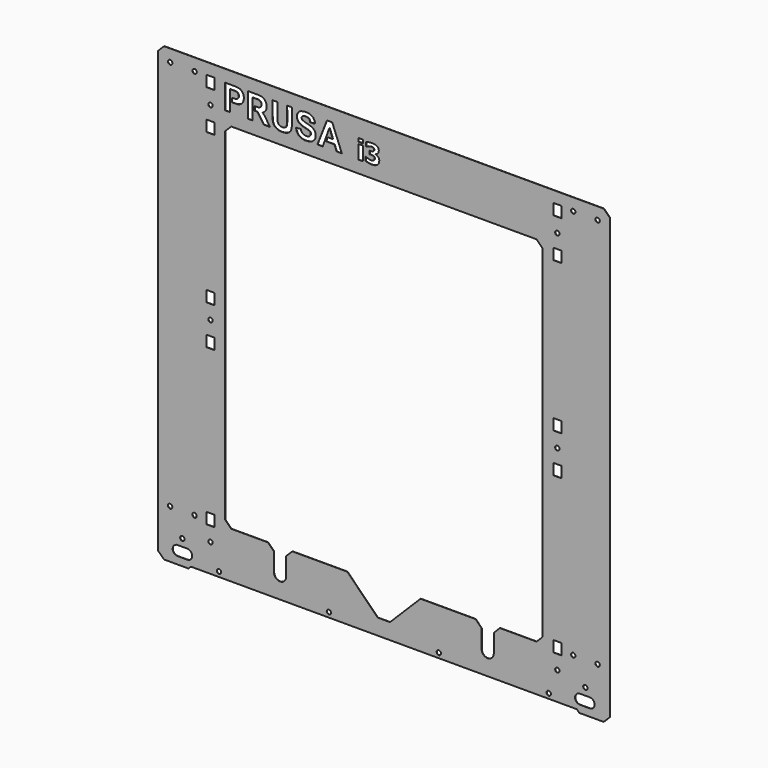
from build123d import *

# Parameters (mm, degrees)
F0_W     = 165.1
F0_H     = 228.599975
F0_H_2   = 228.599974
F0_W_2   = 89.414324
F0_H_3   = 286.892264
F0_W_3   = 94.523738
F0_H_4   = 69.743168
F1_DEPTH = 6


with BuildPart() as f1:
    # F0 (on Front) → F1 (new body)
    with BuildSketch(Plane.XZ):
        Polygon((-7885.972519, -4577.678754), (-7758.972519, -4699.808355), (-7250.972569, -4699.808355), (-7200.172569, -4649.008355), (826.226796, -4649.008355), (877.026796, -4699.808355), (1385.026745, -4699.808355), (1512.026745, -4572.808355), (1512.026745, 4571.190908), (1385.026745, 4698.190908), (-7758.972519, 4698.190908), (-7885.972519, 4571.190908), align=None)
        Polygon((-7577.038262, -4471.169137), (-7580.500206, -4444.873127), (-7577.038262, -4418.577117), (-7566.888397, -4394.073127), (-7550.742252, -4373.031081), (-7529.700206, -4356.884936), (-7505.196216, -4346.735071), (-7478.900206, -4343.273127), (-7275.802593, -4343.273127), (-7249.506583, -4346.735071), (-7225.002593, -4356.884936), (-7203.960548, -4373.031081), (-7187.814428, -4394.073127), (-7177.664537, -4418.577117), (-7174.202619, -4444.873127), (-7177.664537, -4471.169137), (-7187.814428, -4495.673102), (-7203.960548, -4516.715173), (-7225.002593, -4532.861292), (-7249.506583, -4543.011183), (-7274.104324, -4546.473102), (-7478.900206, -4546.473102), (-7505.196216, -4543.011183), (-7529.700206, -4532.861292), (-7550.742252, -4516.715173), (-7566.888397, -4495.673102), align=None, mode=Mode.SUBTRACT)
        Polygon((-7346.262524, -4159.301079), (-7338.995406, -4168.768955), (-7334.426378, -4179.795095), (-7332.866818, -4191.628066), (-7334.422999, -4203.461494), (-7338.988853, -4214.488955), (-7346.253253, -4223.958913), (-7355.721153, -4231.226031), (-7366.747293, -4235.795059), (-7378.580264, -4237.354619), (-7390.413693, -4235.798437), (-7401.441128, -4231.232559), (-7410.911112, -4223.968159), (-7418.178204, -4214.500283), (-7422.747232, -4203.474143), (-7424.306792, -4191.641147), (-7422.750636, -4179.807719), (-7418.184757, -4168.780283), (-7410.920357, -4159.310325), (-7401.452482, -4152.043207), (-7390.426342, -4147.474179), (-7378.593345, -4145.914619), (-7366.759917, -4147.470801), (-7355.732482, -4152.036654), align=None, mode=Mode.SUBTRACT)
        Polygon((-6571.810478, -4535.575155), (-6570.25262, -4547.408355), (-6571.810478, -4559.241555), (-6576.377932, -4570.268355), (-6583.643703, -4579.737272), (-6593.11262, -4587.003043), (-6604.139421, -4591.570471), (-6615.97262, -4593.128355), (-6627.80582, -4591.570471), (-6638.83262, -4587.003043), (-6648.301537, -4579.737272), (-6655.567283, -4570.268355), (-6660.134737, -4559.241555), (-6661.69262, -4547.408355), (-6660.134737, -4535.575155), (-6655.567283, -4524.548355), (-6648.301537, -4515.079438), (-6638.83262, -4507.813692), (-6627.80582, -4503.246239), (-6615.97262, -4501.688355), (-6604.139421, -4503.246239), (-6593.11262, -4507.813692), (-6583.643703, -4515.079438), (-6576.377932, -4524.548355), align=None, mode=Mode.SUBTRACT)
        Polygon((-7632.769164, -3637.562981), (-7620.935736, -3639.119163), (-7609.908301, -3643.685016), (-7600.438342, -3650.949416), (-7593.171225, -3660.417317), (-7588.602196, -3671.443457), (-7587.042636, -3683.276428), (-7588.598818, -3695.109856), (-7593.164671, -3706.137292), (-7600.429097, -3715.607275), (-7609.896972, -3722.874368), (-7620.923112, -3727.443396), (-7632.756083, -3729.002956), (-7644.589511, -3727.4468), (-7655.616972, -3722.880921), (-7665.08693, -3715.616521), (-7672.354048, -3706.148646), (-7676.923051, -3695.122506), (-7678.482636, -3683.289509), (-7676.926455, -3671.456081), (-7672.360576, -3660.428646), (-7665.096176, -3650.958687), (-7655.628301, -3643.69157), (-7644.602161, -3639.122541), align=None, mode=Mode.SUBTRACT)
        Polygon((-7147.276663, -3643.69157), (-7136.250523, -3639.122541), (-7124.417527, -3637.562981), (-7112.584098, -3639.119163), (-7101.556663, -3643.685016), (-7092.086705, -3650.949416), (-7084.819587, -3660.417317), (-7080.250559, -3671.443457), (-7078.690999, -3683.276428), (-7080.247155, -3695.109856), (-7084.813034, -3706.137292), (-7092.077434, -3715.607275), (-7101.545309, -3722.874368), (-7112.571449, -3727.443396), (-7124.404446, -3729.002956), (-7136.237874, -3727.4468), (-7147.265309, -3722.880921), (-7156.735267, -3715.616521), (-7164.002385, -3706.148646), (-7168.571413, -3695.122506), (-7170.130973, -3683.289509), (-7168.574817, -3671.456081), (-7164.008938, -3660.428646), (-7156.744538, -3650.958687), align=None, mode=Mode.SUBTRACT)
        Polygon((-6817.053981, -4104.144649), (-6826.523964, -4096.880249), (-6833.791057, -4087.412374), (-6838.360085, -4076.386234), (-6839.919645, -4064.553237), (-6838.363489, -4052.719809), (-6833.79761, -4041.692374), (-6826.53321, -4032.222416), (-6817.065335, -4024.955298), (-6806.039195, -4020.38627), (-6794.206198, -4018.82671), (-6782.37277, -4020.382891), (-6771.345335, -4024.948745), (-6761.875376, -4032.21317), (-6754.608259, -4041.681045), (-6750.03923, -4052.707185), (-6748.47967, -4064.540156), (-6750.035852, -4076.373585), (-6754.601705, -4087.401045), (-6761.866105, -4096.871004), (-6771.334006, -4104.138121), (-6782.360146, -4108.707124), (-6794.193117, -4110.26671), (-6806.026545, -4108.710528), align=None, mode=Mode.SUBTRACT)
        with Locations((-6793.772595, -3654.599892)):
            Rectangle(F0_W, F0_H, mode=Mode.SUBTRACT)
        Polygon((-4285.810682, -4535.575155), (-4284.252798, -4547.408355), (-4285.810682, -4559.241555), (-4290.37811, -4570.268355), (-4297.643881, -4579.737272), (-4307.112798, -4587.003043), (-4318.139598, -4591.570471), (-4329.972798, -4593.128355), (-4341.805998, -4591.570471), (-4352.832798, -4587.003043), (-4362.301715, -4579.737272), (-4369.567486, -4570.268355), (-4374.134914, -4559.241555), (-4375.692798, -4547.408355), (-4374.134914, -4535.575155), (-4369.567486, -4524.548355), (-4362.301715, -4515.079438), (-4352.832798, -4507.813692), (-4341.805998, -4503.246239), (-4329.972798, -4501.688355), (-4318.139598, -4503.246239), (-4307.112798, -4507.813692), (-4297.643881, -4515.079438), (-4290.37811, -4524.548355), align=None, mode=Mode.SUBTRACT)
        Polygon((-1999.810859, -4535.575155), (-1998.252976, -4547.408355), (-1999.810859, -4559.241555), (-2004.378313, -4570.268355), (-2011.644059, -4579.737272), (-2021.112976, -4587.003043), (-2032.139776, -4591.570471), (-2043.972976, -4593.128355), (-2055.806175, -4591.570471), (-2066.832976, -4587.003043), (-2076.301893, -4579.737272), (-2083.567664, -4570.268355), (-2088.135118, -4559.241555), (-2089.692976, -4547.408355), (-2088.135118, -4535.575155), (-2083.567664, -4524.548355), (-2076.301893, -4515.079438), (-2066.832976, -4507.813692), (-2055.806175, -4503.246239), (-2043.972976, -4501.688355), (-2032.139776, -4503.246239), (-2021.112976, -4507.813692), (-2011.644059, -4515.079438), (-2004.378313, -4524.548355), align=None, mode=Mode.SUBTRACT)
        with Locations((-6793.772595, -411.018698)):
            Rectangle(F0_W, F0_H_2, mode=Mode.SUBTRACT)
        Polygon((-6793.125073, -46.608187), (-6804.958526, -45.052005), (-6815.985962, -40.486127), (-6825.45592, -33.221727), (-6832.723038, -23.753851), (-6837.292066, -12.727711), (-6838.851626, -0.89474), (-6837.295444, 10.938688), (-6832.729591, 21.966149), (-6825.465165, 31.436107), (-6815.99729, 38.703225), (-6804.97115, 43.272253), (-6793.138179, 44.831813), (-6781.304751, 43.275631), (-6770.27729, 38.709752), (-6760.807332, 31.445352), (-6753.540214, 21.977477), (-6748.971186, 10.951337), (-6747.411626, -0.881634), (-6748.967808, -12.715062), (-6753.533686, -23.742523), (-6760.798086, -33.212481), (-6770.265962, -40.479599), (-6781.292102, -45.048627), align=None, mode=Mode.SUBTRACT)
        Polygon((-5599.972696, -3683.808431), (-5853.972671, -3683.808431), (-6361.972646, -3683.808431), (-6488.97262, -3556.808431), (-6488.97262, 3555.190985), (-6361.972646, 3682.190985), (-11.973154, 3682.190985), (115.026846, 3555.190985), (115.026846, -3556.808431), (-11.973154, -3683.808431), (-519.973103, -3683.808431), (-773.973077, -3683.808431), (-900.973077, -3810.808406), (-900.973077, -3836.208406), (-900.973077, -4193.473198), (-905.088792, -4224.735137), (-917.798037, -4255.417981), (-938.015523, -4281.765909), (-964.363476, -4301.98342), (-995.046321, -4314.692666), (-1027.973052, -4319.027557), (-1060.899809, -4314.692666), (-1091.582653, -4301.98342), (-1117.930606, -4281.765909), (-1138.148092, -4255.417981), (-1150.857338, -4224.735137), (-1154.973052, -4193.473198), (-1154.973052, -3836.208406), (-1154.973052, -3810.808406), (-1281.973052, -3683.808431), (-2424.97295, -3683.808431), (-3059.9729, -4318.80838), (-3313.972874, -4318.80838), (-3948.972823, -3683.808431), (-5091.972747, -3683.808431), (-5218.972722, -3810.808406), (-5218.972722, -3836.208406), (-5218.972722, -4193.473198), (-5223.088436, -4224.735137), (-5235.797682, -4255.417981), (-5256.015193, -4281.765909), (-5282.363146, -4301.98342), (-5313.045965, -4314.692666), (-5345.972722, -4319.027557), (-5378.899453, -4314.692666), (-5409.582297, -4301.98342), (-5435.930251, -4281.765909), (-5456.147736, -4255.417981), (-5468.856982, -4224.735137), (-5472.972696, -4193.473198), (-5472.972696, -3836.208406), (-5472.972696, -3810.808406), align=None, mode=Mode.SUBTRACT)
        Polygon((197.864705, -4559.241555), (196.306846, -4547.408355), (197.864705, -4535.575155), (202.432158, -4524.548355), (209.69793, -4515.079438), (219.166846, -4507.813692), (230.193621, -4503.246239), (242.026846, -4501.688355), (253.860046, -4503.246239), (264.886846, -4507.813692), (274.355763, -4515.079438), (281.621509, -4524.548355), (286.188963, -4535.575155), (287.746821, -4547.408355), (286.188963, -4559.241555), (281.621509, -4570.268355), (274.355763, -4579.737272), (264.886846, -4587.003043), (253.860046, -4591.570471), (242.026846, -4593.128355), (230.193621, -4591.570471), (219.166846, -4587.003043), (209.69793, -4579.737272), (202.432158, -4570.268355), align=None, mode=Mode.SUBTRACT)
        Polygon((1011.130693, -4546.473102), (1004.02677, -4547.408355), (996.922847, -4546.473102), (891.352142, -4546.473102), (865.056131, -4543.011183), (840.552142, -4532.861292), (819.510096, -4516.715173), (803.363951, -4495.673102), (793.214085, -4471.169137), (789.752142, -4444.873127), (793.214085, -4418.577117), (803.363951, -4394.073127), (819.510096, -4373.031081), (840.552142, -4356.884936), (865.056131, -4346.735071), (891.352142, -4343.273127), (1094.449754, -4343.273127), (1120.745765, -4346.735071), (1145.249754, -4356.884936), (1166.2918, -4373.031081), (1182.43792, -4394.073127), (1192.58781, -4418.577117), (1196.049729, -4444.873127), (1192.58781, -4471.169137), (1182.43792, -4495.673102), (1166.2918, -4516.715173), (1145.249754, -4532.861292), (1120.745765, -4543.011183), (1096.148024, -4546.473102), align=None, mode=Mode.SUBTRACT)
        Polygon((1036.443139, -4160.303059), (1043.710257, -4169.770934), (1048.279285, -4180.797074), (1049.838845, -4192.630045), (1048.282663, -4204.463473), (1043.716785, -4215.490934), (1036.452385, -4224.960892), (1026.984509, -4232.22801), (1015.958369, -4236.797038), (1004.125398, -4238.356598), (992.29197, -4236.800416), (981.264509, -4232.234538), (971.794551, -4224.970138), (964.527433, -4215.502262), (959.958405, -4204.476122), (958.398845, -4192.643151), (959.955027, -4180.809723), (964.520906, -4169.782262), (971.785306, -4160.312304), (981.253181, -4153.045186), (992.279321, -4148.476158), (1004.112292, -4146.916598), (1015.94572, -4148.47278), (1026.973181, -4153.038659), align=None, mode=Mode.SUBTRACT)
        Polygon((463.971208, -4052.979956), (465.528457, -4064.808406), (463.971208, -4076.636856), (459.405609, -4087.659211), (452.142758, -4097.124343), (442.677652, -4104.387168), (431.655271, -4108.952793), (419.826821, -4110.510042), (407.998371, -4108.952793), (396.976016, -4104.387168), (387.510884, -4097.124343), (380.248033, -4087.659211), (375.682434, -4076.636856), (374.125185, -4064.808406), (375.682434, -4052.979956), (380.248033, -4041.957575), (387.510884, -4032.492468), (396.976016, -4025.229618), (407.998371, -4020.664019), (419.826821, -4019.10677), (431.655271, -4020.664019), (442.677652, -4025.229618), (452.142758, -4032.492468), (459.405609, -4041.957575), align=None, mode=Mode.SUBTRACT)
        with Locations((419.826821, -3654.599892)):
            Rectangle(F0_W, F0_H, mode=Mode.SUBTRACT)
        Polygon((727.521862, -3644.444756), (738.548002, -3639.875728), (750.380973, -3638.316168), (762.214401, -3639.872324), (773.241862, -3644.438203), (782.71182, -3651.702603), (789.978938, -3661.170478), (794.547966, -3672.196618), (796.107526, -3684.029614), (794.551345, -3695.863043), (789.985466, -3706.890478), (782.721066, -3716.360436), (773.253191, -3723.627554), (762.227051, -3728.196582), (750.39408, -3729.756142), (738.560651, -3728.19996), (727.533191, -3723.634107), (718.063232, -3716.369707), (710.796115, -3706.901806), (706.227086, -3695.875692), (704.667526, -3684.042695), (706.223708, -3672.209267), (710.789587, -3661.181832), (718.053987, -3651.711874), align=None, mode=Mode.SUBTRACT)
        Polygon((1280.715828, -3724.765372), (1269.689688, -3729.334401), (1257.856717, -3730.893961), (1246.023289, -3729.337779), (1234.995828, -3724.7719), (1225.52587, -3717.5075), (1218.258752, -3708.039625), (1213.689724, -3697.013485), (1212.130164, -3685.180514), (1213.686346, -3673.347086), (1218.252224, -3662.319625), (1225.516624, -3652.849667), (1234.9845, -3645.582549), (1246.01064, -3641.013521), (1257.843611, -3639.453961), (1269.677039, -3641.010142), (1280.7045, -3645.576021), (1290.174458, -3652.840421), (1297.441576, -3662.308296), (1302.010604, -3673.334436), (1303.570164, -3685.167407), (1302.013982, -3697.000836), (1297.448104, -3708.028296), (1290.183704, -3717.498255), align=None, mode=Mode.SUBTRACT)
        with Locations((419.826821, -411.018698)):
            Rectangle(F0_W, F0_H_2, mode=Mode.SUBTRACT)
        Polygon((463.968897, 11.024032), (465.528457, -0.808939), (463.972275, -12.642367), (459.406422, -23.669803), (452.141996, -33.139786), (442.674121, -40.406879), (431.647981, -44.975907), (419.81501, -46.535467), (407.981582, -44.979311), (396.954121, -40.413432), (387.484163, -33.149032), (380.217045, -23.681157), (375.648042, -12.655017), (374.088457, -0.82202), (375.644639, 11.011408), (380.210517, 22.038843), (387.474917, 31.508802), (396.942793, 38.775919), (407.968933, 43.344948), (419.801929, 44.904508), (431.635357, 43.348326), (442.662793, 38.782473), (452.132751, 31.518073), (459.399869, 22.050172), align=None, mode=Mode.SUBTRACT)
        with Locations((-6793.772595, 409.401252)):
            Rectangle(F0_W, F0_H, mode=Mode.SUBTRACT)
        with Locations((-6793.772595, 3528.337381)):
            Rectangle(F0_W, F0_H, mode=Mode.SUBTRACT)
        Polygon((-6770.27729, 3975.662661), (-6760.807332, 3968.398261), (-6753.540214, 3958.930385), (-6748.971186, 3947.904245), (-6747.411626, 3936.071249), (-6748.967808, 3924.237821), (-6753.533686, 3913.210385), (-6760.798086, 3903.740427), (-6770.265962, 3896.473309), (-6781.292102, 3891.904281), (-6793.125073, 3890.344721), (-6804.958526, 3891.900878), (-6815.985962, 3896.466756), (-6825.45592, 3903.731156), (-6832.723038, 3913.199032), (-6837.292066, 3924.225172), (-6838.851626, 3936.058168), (-6837.295444, 3947.891596), (-6832.729591, 3958.919032), (-6825.465165, 3968.38899), (-6815.99729, 3975.656108), (-6804.97115, 3980.225136), (-6793.138179, 3981.784696), (-6781.304751, 3980.228539), align=None, mode=Mode.SUBTRACT)
        Polygon((-7620.020015, 4400.37286), (-7631.853012, 4398.8133), (-7643.68644, 4400.369482), (-7654.713875, 4404.935335), (-7664.183833, 4412.199735), (-7671.450951, 4421.667636), (-7676.019979, 4432.693776), (-7677.579539, 4444.526747), (-7676.023358, 4456.360175), (-7671.457504, 4467.387636), (-7664.193104, 4476.857594), (-7654.725204, 4484.124687), (-7643.699089, 4488.693715), (-7631.866093, 4490.2533), (-7620.032664, 4488.697119), (-7609.005229, 4484.13124), (-7599.535271, 4476.86684), (-7592.268153, 4467.398965), (-7587.699125, 4456.372825), (-7586.139565, 4444.539828), (-7587.695721, 4432.7064), (-7592.2616, 4421.678965), (-7599.526, 4412.209006), (-7608.993875, 4404.941889), align=None, mode=Mode.SUBTRACT)
        Polygon((-7162.988925, 4467.387636), (-7155.7245, 4476.857594), (-7146.256624, 4484.124687), (-7135.230484, 4488.693715), (-7123.397513, 4490.2533), (-7111.564085, 4488.697119), (-7100.536624, 4484.13124), (-7091.066666, 4476.86684), (-7083.799548, 4467.398965), (-7079.230546, 4456.372825), (-7077.67096, 4444.539828), (-7079.227142, 4432.7064), (-7083.793021, 4421.678965), (-7091.057421, 4412.209006), (-7100.525296, 4404.941889), (-7111.551436, 4400.37286), (-7123.384432, 4398.8133), (-7135.217861, 4400.369482), (-7146.245296, 4404.935335), (-7155.715254, 4412.199735), (-7162.982372, 4421.667636), (-7167.5514, 4432.693776), (-7169.11096, 4444.526747), (-7167.554778, 4456.360175), align=None, mode=Mode.SUBTRACT)
        with Locations((-6793.772595, 4348.75733)):
            Rectangle(F0_W, F0_H_2, mode=Mode.SUBTRACT)
        Polygon((-6232.432646, 4342.590934), (-6252.752646, 4352.750934), (-6278.152646, 4357.830934), (-6387.372646, 4357.830934), (-6387.372646, 3936.190959), (-6488.97262, 3936.190959), (-6488.97262, 4444.190934), (-6275.612646, 4444.190934), (-6240.052646, 4441.650934), (-6201.952646, 4436.570934), (-6179.092646, 4428.950934), (-6146.072646, 4406.090934), (-6125.752646, 4380.690934), (-6107.972646, 4347.670934), (-6100.352646, 4309.570934), (-6100.352646, 4266.390934), (-6105.432646, 4233.370934), (-6120.672646, 4200.350934), (-6143.532646, 4172.410934), (-6181.632646, 4147.010934), (-6232.432646, 4131.770959), (-6275.612646, 4129.230959), (-6349.272646, 4129.230959), (-6349.272646, 4215.590934), (-6308.632646, 4215.590934), (-6275.612646, 4215.590934), (-6252.752646, 4220.670934), (-6229.892646, 4233.370934), (-6217.192646, 4248.610934), (-6207.032646, 4268.930934), (-6204.492646, 4291.790934), (-6209.572646, 4312.110934), (-6217.192646, 4327.350934), align=None, mode=Mode.SUBTRACT)
        Polygon((-5729.512696, 4436.570934), (-5706.652696, 4428.950934), (-5673.632696, 4406.090934), (-5653.312696, 4380.690934), (-5635.532696, 4347.670934), (-5627.912696, 4309.570934), (-5627.912696, 4266.390934), (-5632.992696, 4233.370934), (-5648.232696, 4200.350934), (-5671.092696, 4172.410934), (-5709.192696, 4147.010934), (-5689.62446, 4129.517751), (-5665.276604, 4105.169895), (-5559.078569, 3936.28913), (-5682.889955, 3936.28913), (-5816.026011, 4129.230959), (-5876.832671, 4129.230959), (-5876.832671, 4215.590934), (-5836.192671, 4215.590934), (-5803.172671, 4215.590934), (-5780.312671, 4220.670934), (-5757.452671, 4233.370934), (-5744.752696, 4248.610934), (-5734.592696, 4268.930934), (-5732.052696, 4291.790934), (-5737.132696, 4312.110934), (-5744.752696, 4327.350934), (-5759.992671, 4342.590934), (-5780.312671, 4352.750934), (-5805.712671, 4357.830934), (-5914.932671, 4357.830934), (-5914.932671, 3936.190959), (-6016.532671, 3936.190959), (-6016.532671, 4444.190934), (-5803.172671, 4444.190934), (-5767.612671, 4441.650934), align=None, mode=Mode.SUBTRACT)
        Polygon((-5204.216338, 4097.118806), (-5201.108089, 4140.634111), (-5201.729729, 4443.997868), (-5098.536336, 4443.997868), (-5097.914696, 4220.20492), (-5097.914696, 4120.74139), (-5106.617752, 4050.495277), (-5125.267143, 3998.532313), (-5154.48456, 3969.936536), (-5188.053505, 3948.178896), (-5241.515146, 3931.394423), (-5308.03137, 3926.421256), (-5374.54762, 3935.124312), (-5418.684565, 3951.287144), (-5450.388566, 3972.423145), (-5474.01115, 4000.397257), (-5488.930678, 4030.857953), (-5498.877013, 4073.129954), (-5504.471846, 4165.133707), (-5503.452696, 4444.190934), (-5400.656788, 4443.997868), (-5400.656788, 4321.533394), (-5401.278428, 4119.498111), (-5393.197037, 4071.009638), (-5372.682676, 4039.927277), (-5341.600315, 4021.277886), (-5303.679842, 4015.061414), (-5267.002674, 4017.547997), (-5236.541978, 4030.602581), (-5213.541033, 4052.981886), align=None, mode=Mode.SUBTRACT)
        Polygon((-4749.404243, 4137.899852), (-4865.418489, 4166.258901), (-4937.605136, 4198.485075), (-4973.698485, 4230.711249), (-4994.323235, 4275.827923), (-4999.479409, 4326.100746), (-4989.167035, 4359.615995), (-4958.229911, 4406.021693), (-4910.535162, 4435.669767), (-4843.504689, 4451.138342), (-4800.966141, 4451.138342), (-4746.826143, 4447.271192), (-4695.26427, 4427.935493), (-4655.303796, 4399.576443), (-4626.944747, 4349.30362), (-4616.632372, 4299.030772), (-4719.965033, 4292.669088), (-4727.424784, 4325.492035), (-4740.852367, 4347.125367), (-4769.945451, 4363.536841), (-4802.768423, 4368.758674), (-4837.829313, 4367.266729), (-4863.938481, 4360.552925), (-4885.571788, 4347.87134), (-4897.507426, 4329.967896), (-4897.644688, 4310.632197), (-4889.910388, 4287.429347), (-4830.614215, 4261.648398), (-4740.380918, 4238.445549), (-4664.32712, 4208.79745), (-4623.077622, 4163.680801), (-4605.030947, 4112.118903), (-4605.030947, 4047.666555), (-4630.811897, 3998.682757), (-4684.95187, 3950.988009), (-4768.739942, 3930.363234), (-4833.192315, 3927.785134), (-4900.222788, 3941.964659), (-4963.386085, 3980.636082), (-5000.768459, 4041.221305), (-5016.237034, 4099.228428), (-4916.980387, 4108.251778), (-4911.824212, 4086.337954), (-4888.621363, 4046.377505), (-4851.238989, 4023.174656), (-4802.255191, 4014.151306), (-4761.005667, 4018.018456), (-4730.068543, 4036.065131), (-4709.443769, 4063.135105), (-4708.154744, 4092.783204), (-4717.178069, 4118.564153), align=None, mode=Mode.SUBTRACT)
        Polygon((-4459.368602, 3935.519434), (-4570.226674, 3935.519434), (-4370.42433, 4442.115017), (-4262.144359, 4442.115017), (-4061.05299, 3936.808484), (-4170.622012, 3938.097534), (-4214.44961, 4052.82273), (-4388.471005, 4052.82273), (-4358.822905, 4136.610802), (-4247.964859, 4137.899852), (-4318.862457, 4323.522671), align=None, mode=Mode.SUBTRACT)
        with Locations((-3670.180531, 4079.637091)):
            Rectangle(F0_W_2, F0_H_3, mode=Mode.SUBTRACT)
        with Locations((-3670.180531, 4298.829934)):
            Rectangle(F0_W_3, F0_H_4, mode=Mode.SUBTRACT)
        Polygon((-3284.517383, 4079.541295), (-3282.633287, 4059.327264), (-3285.219922, 4032.694576), (-3292.9798, 4008.488833), (-3305.721354, 3987.221007), (-3323.252942, 3969.401993), (-3345.191379, 3955.191505), (-3370.642535, 3944.749184), (-3400.819868, 3938.330528), (-3436.936865, 3936.190959), (-3478.22713, 3938.043127), (-3513.194523, 3943.59958), (-3564.927084, 3960.205084), (-3564.927084, 4042.721734), (-3555.730201, 4042.721734), (-3532.961463, 4030.331487), (-3506.552321, 4019.729502), (-3479.568352, 4012.448617), (-3455.075208, 4010.021647), (-3425.057539, 4012.448617), (-3410.144513, 4016.312592), (-3397.85005, 4023.050603), (-3383.926963, 4038.761976), (-3379.999107, 4050.034572), (-3378.689839, 4065.203071), (-3380.541982, 4080.116097), (-3386.098435, 4091.13322), (-3394.720541, 4098.956979), (-3405.769592, 4104.289886), (-3435.148578, 4109.143826), (-3465.293984, 4109.654747), (-3481.64404, 4109.654747), (-3481.64404, 4176.587761), (-3466.571324, 4176.587761), (-3434.637657, 4178.120574), (-3409.857112, 4184.251855), (-3393.890266, 4197.791731), (-3389.579225, 4208.010507), (-3388.142195, 4221.294936), (-3389.483417, 4231.737257), (-3393.507056, 4240.071936), (-3406.791485, 4251.440341), (-3428.250903, 4257.571597), (-3449.199401, 4259.10441), (-3477.811993, 4255.78331), (-3506.169112, 4247.352821), (-3528.650423, 4236.750836), (-3546.022347, 4226.91527), (-3553.941914, 4226.91527), (-3553.941914, 4308.410027), (-3500.931987, 4324.632346), (-3467.241935, 4330.476201), (-3432.84937, 4332.424177), (-3401.139223, 4330.955219), (-3373.963636, 4326.54837), (-3350.875594, 4319.331341), (-3331.427957, 4309.43192), (-3314.439244, 4295.796234), (-3302.304444, 4278.903304), (-3295.02356, 4259.200219), (-3292.596615, 4237.134045), (-3297.290865, 4206.701239), (-3311.373616, 4180.292071), (-3333.120461, 4160.205777), (-3360.806969, 4148.741588), (-3360.806969, 4145.165014), (-3334.365874, 4138.267339), (-3309.202119, 4122.42823), (-3298.695943, 4111.027897), (-3290.169645, 4096.753554), align=None, mode=Mode.SUBTRACT)
        with Locations((419.826821, 409.401252)):
            Rectangle(F0_W, F0_H, mode=Mode.SUBTRACT)
        with Locations((419.826821, 3528.337381)):
            Rectangle(F0_W, F0_H, mode=Mode.SUBTRACT)
        Polygon((464.217258, 3948.015929), (465.851773, 3936.193067), (464.370623, 3924.350013), (459.874747, 3913.29385), (452.67052, 3903.778019), (443.248872, 3896.451059), (432.251917, 3891.812232), (420.429055, 3890.177716), (408.586, 3891.658841), (397.529837, 3896.154743), (388.014032, 3903.35897), (380.687047, 3912.780592), (376.048245, 3923.777573), (374.413704, 3935.600435), (375.894854, 3947.443489), (380.39073, 3958.499652), (387.594983, 3968.015457), (397.016605, 3975.342418), (408.01356, 3979.981245), (419.836422, 3981.615786), (431.679477, 3980.134636), (442.73564, 3975.638734), (452.251445, 3968.434507), (459.578431, 3959.012885), align=None, mode=Mode.SUBTRACT)
        with Locations((419.826821, 4348.75733)):
            Rectangle(F0_W, F0_H_2, mode=Mode.SUBTRACT)
        Polygon((738.270304, 4488.106492), (750.103275, 4489.666052), (761.936703, 4488.109871), (772.964164, 4483.543992), (782.434122, 4476.279592), (789.70124, 4466.811717), (794.270243, 4455.785577), (795.829828, 4443.952606), (794.273646, 4432.119177), (789.707768, 4421.091717), (782.443368, 4411.621758), (772.975492, 4404.354641), (761.949352, 4399.785612), (750.116356, 4398.226052), (738.282928, 4399.782234), (727.255492, 4404.348113), (717.785534, 4411.612513), (710.518416, 4421.080388), (705.949388, 4432.106528), (704.389828, 4443.939499), (705.94601, 4455.772927), (710.511863, 4466.800388), (717.776289, 4476.270346), (727.244164, 4483.537464), align=None, mode=Mode.SUBTRACT)
        Polygon((1297.049146, 4467.650298), (1301.618174, 4456.624158), (1303.177734, 4444.791187), (1301.621578, 4432.957758), (1297.055699, 4421.930323), (1289.791299, 4412.460339), (1280.323424, 4405.193247), (1269.297284, 4400.624219), (1257.464287, 4399.064659), (1245.630859, 4400.620815), (1234.603424, 4405.186694), (1225.133465, 4412.451094), (1217.866348, 4421.918969), (1213.297319, 4432.945109), (1211.737759, 4444.778106), (1213.293941, 4456.611534), (1217.859794, 4467.638969), (1225.124194, 4477.108927), (1234.592095, 4484.376045), (1245.618235, 4488.945073), (1257.451206, 4490.504633), (1269.284634, 4488.948452), (1280.31207, 4484.382598), (1289.782053, 4477.118198), align=None, mode=Mode.SUBTRACT)
    extrude(amount=F1_DEPTH)


solid = f1.part
